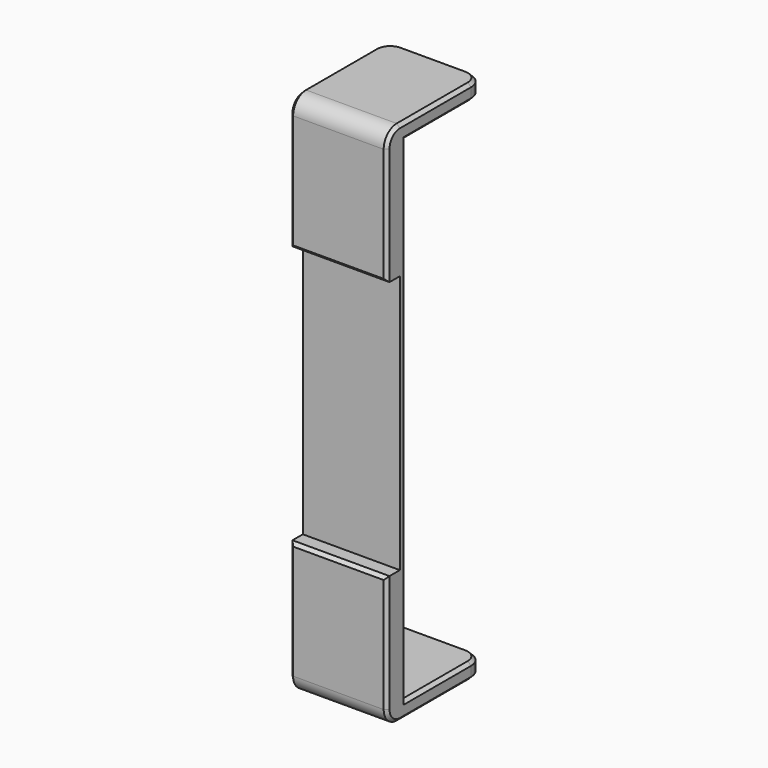
from build123d import *

# Parameters (mm, degrees)
PAD004_DEPTH    = 30
FILLET002_R     = 5
FILLET003_R     = 5
CHAMFER002_SIZE = 1


with BuildPart() as part:
    # Sketch006 → Pad004 (new body)
    with BuildSketch(Plane.YZ):
        Polygon((0, 0), (0, 80), (-5, 80), (-5, 121.25), (32.5, 121.25), (32.5, 116.25), (2.5, 116.25), (2.5, -36.25), (32.5, -36.25), (32.5, -41.25), (-5, -41.25), (-5, 0), align=None)
    extrude(amount=PAD004_DEPTH)

    # Fillet002
    fillet002_edges = [part.edges().sort_by_distance(p)[0] for p in [
        (0, 32.5, 118.75),
        (30, 32.5, 118.75),
        (0, 32.5, -38.75),
        (30, 32.5, -38.75),
    ]]
    fillet(fillet002_edges, radius=FILLET002_R)

    # Fillet003
    fillet003_edges = [part.edges().sort_by_distance(p)[0] for p in [
        (15, -5, 121.25),
        (15, -5, -41.25),
    ]]
    fillet(fillet003_edges, radius=FILLET003_R)

    # Chamfer002
    chamfer002_edges = [part.edges().sort_by_distance(p)[0] for p in [
        (30, 2.5, 40),
        (0, 2.5, 40),
        (15, 32.5, 116.25),
        (15, 32.5, -36.25),
        (15, 32.5, -41.25),
        (15, 32.5, 121.25),
        (15, -5, 80),
        (15, -5, 0),
    ]]
    chamfer(chamfer002_edges, length=CHAMFER002_SIZE)


solid = part.part
